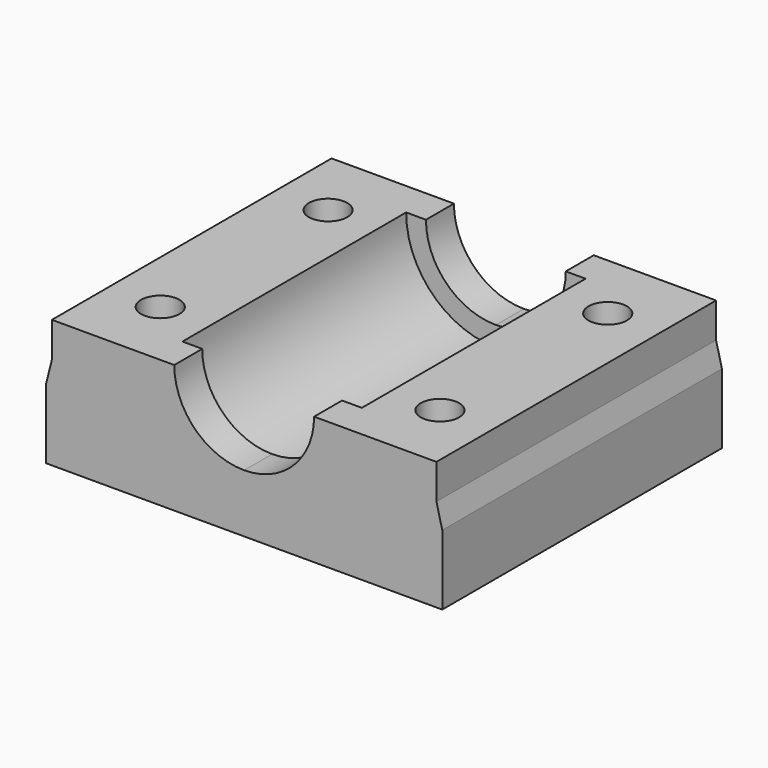
from build123d import *

# Parameters (mm, degrees)
F1_DEPTH = 15
F3_D     = 3.3
F4_R     = 7.7
F5_DEPTH = 12


with BuildPart() as f1:
    # F0 (on Front) → F1 (new body, symmetric)
    with BuildSketch(Plane.XZ):
        with BuildLine():
            Line((-5.4519269615, 0), (0, 0))
            Line((0, 0), (0, 5))
            ThreePointArc((0, 5), (-4.2426406871, 6.7573593129), (-6, 11))
            Line((-6, 11), (-16.5, 11))
            Line((-16.5, 11), (-16.5, 8))
            Line((-16.5, 8), (-17, 6))
            Line((-17, 6), (-17, 0))
            Line((-17, 0), (-9.5, 0))
            Line((-9.5, 0), (-5.4519269615, 0))
        make_face()
        with BuildLine():
            Line((0, 5), (0, 0))
            Line((0, 0), (5.4519269615, 0))
            Line((5.4519269615, 0), (9.5, 0))
            Line((9.5, 0), (17, 0))
            Line((17, 0), (17, 6))
            Line((17, 6), (16.5, 8))
            Line((16.5, 8), (16.5, 11))
            Line((16.5, 11), (6, 11))
            ThreePointArc((6, 11), (4.2426406871, 6.7573593129), (0, 5))
        make_face()
    extrude(amount=F1_DEPTH, both=True)

    # F3 (through all)
    with Locations(Plane(origin=(0, 0, 0), x_dir=(1, 0, 0), z_dir=(0, 0, -1))):
        with Locations((-12, 9), (-12, -9), (12, -9), (12, 9)):
            Hole(F3_D / 2)

    # F4 (on Front) → F5 (cut, symmetric)
    with BuildSketch(Plane.XZ):
        with Locations((0, 11)):
            Circle(F4_R)
    extrude(amount=F5_DEPTH, both=True, mode=Mode.SUBTRACT)


solid = f1.part
